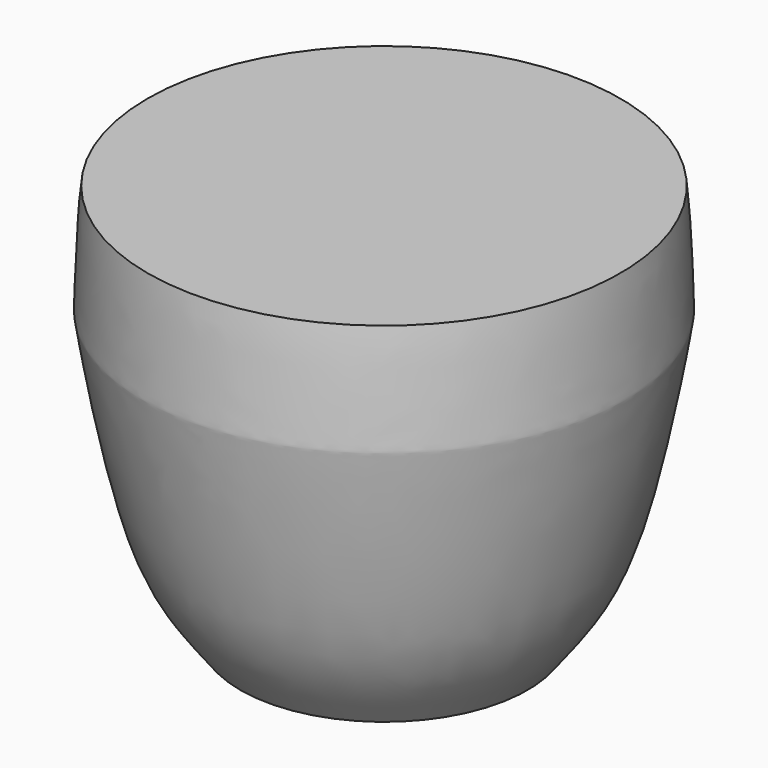
from build123d import *


with BuildPart() as f1:
    # F0 (on Front) → F1 (revolve)
    with BuildSketch(Plane.XZ):
        with BuildLine():
            Line((-26.8685370684, -27.5965016335), (0, -27.5965016335))
            Line((0, -27.5965016335), (0, 46.6559566557))
            Line((0, 46.6559566557), (-44.2073456943, 46.6559566557))
            add(Edge.make_bspline(
                [(-26.8685370684, -27.5965016335), (-30.5609709601, -22.5128905369), (-39.1229875662, -14.3216000793), (-45.2764235385, 26.3991296441), (-45.2644453279, 26.2122355852), (-44.9802898046, 40.6371582825), (-44.2073456943, 46.6559566557)],
                knots=[0, 0, 0, 0, 0.2978302009, 0.6926955135, 0.7058574863, 1, 1, 1, 1], degree=3))
        make_face()
    revolve(axis=Axis((0, 0, 9.5297275111), (0, 0, -1)))


solid = f1.part
